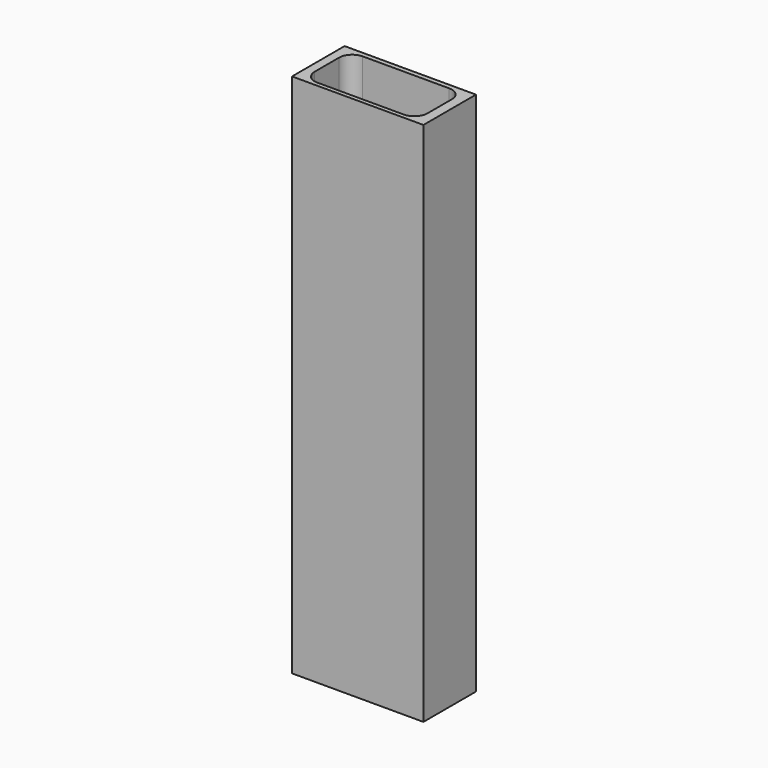
from build123d import *

# Parameters (mm, degrees)
F0_W     = 25.4
F0_H     = 12.7
F0_W_2   = 21.801911
F0_H_2   = 10.974822
F1_DEPTH = 101.6
F2_R     = 2.54


with BuildPart() as f1:
    # F0 (on Top) → F1 (new body)
    with BuildSketch(Plane.XY):
        Rectangle(F0_W, F0_H)
        with Locations((-0.093973, -0.057041)):
            Rectangle(F0_W_2, F0_H_2, mode=Mode.SUBTRACT)
    extrude(amount=F1_DEPTH)

    # F2
    f2_edges = [f1.edges().sort_by_distance(p)[0] for p in [
        (-10.994929, -5.544452, 50.8),
        (10.806982, -5.544452, 50.8),
        (10.806982, 5.43037, 50.8),
        (-10.994929, 5.43037, 50.8),
    ]]
    fillet(f2_edges, radius=F2_R)


solid = f1.part
